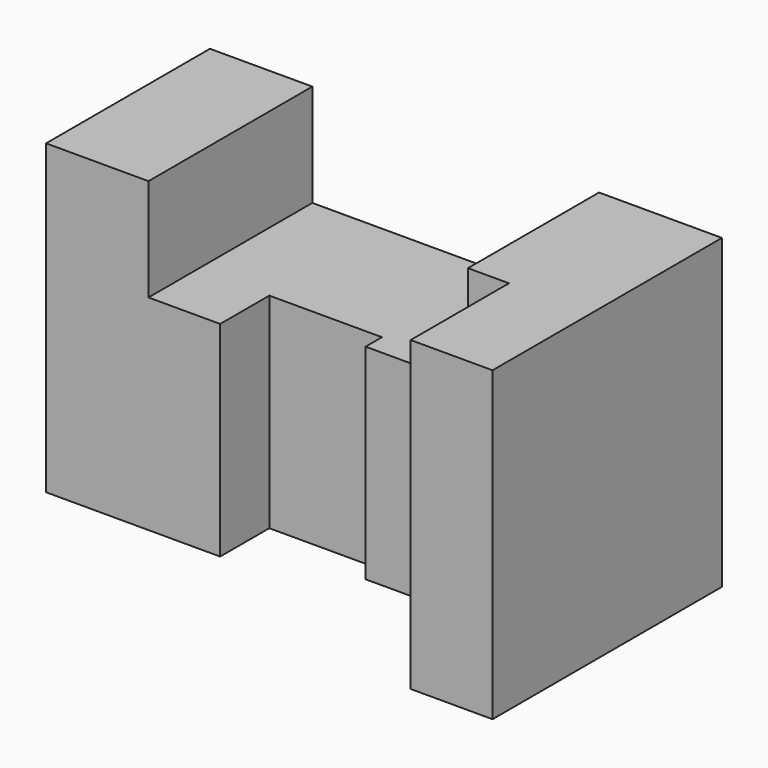
from build123d import *

# Parameters (mm, degrees)
F1_DEPTH = 75
F3_DEPTH = 50
F4_W     = 25
F4_H     = 50
F5_DEPTH = 75


with BuildPart() as f1:
    # F0 (on Top) → F1 (new body)
    with BuildSketch(Plane.XY):
        Polygon((0, 30), (0, 0), (20, 0), (20, 70), (-10, 70), (-10, 30), align=None)
    extrude(amount=F1_DEPTH)

    # F2 (on Top) → F3 (join)
    with BuildSketch(Plane.XY):
        Polygon((-10, 30), (-10, 70), (-80, 70), (-80, 20), (-62.5, 20), (-62.5, 35), (-35, 35), (-35, 30), align=None)
    extrude(amount=F3_DEPTH)

    # F4 (on Top) → F5 (join)
    with BuildSketch(Plane.XY):
        with Locations((-92.5, 45)):
            Rectangle(F4_W, F4_H)
    extrude(amount=F5_DEPTH)


solid = f1.part
